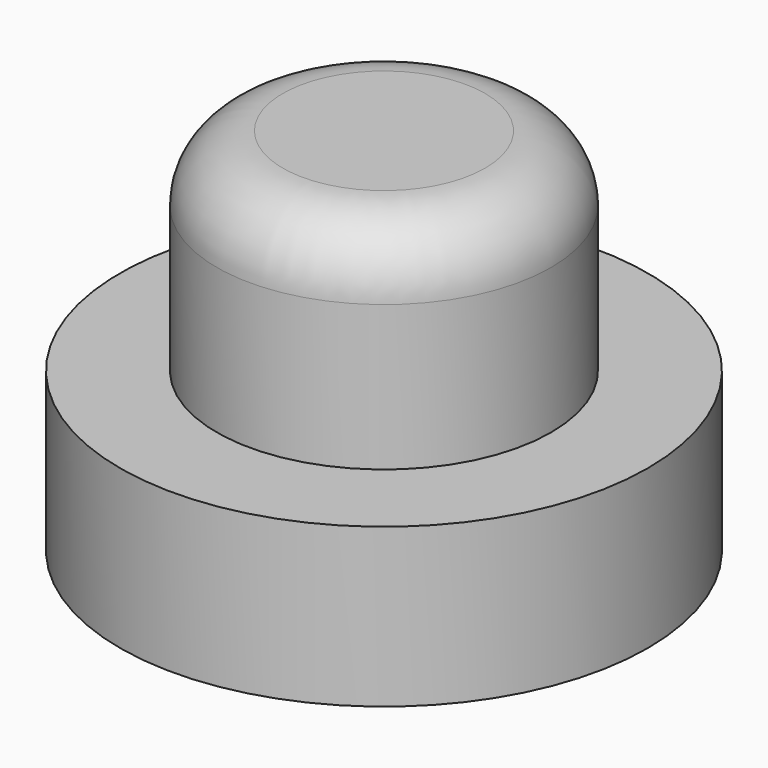
from build123d import *

# Parameters (mm, degrees)
CYLINDER007_R     = 1.9
CYLINDER007_DEPTH = 2.4
CYLINDER006_R     = 3
CYLINDER006_DEPTH = 1.8
FILLET004_R       = 0.75


with BuildPart() as cylinder011:
    # Cylinder007 → Cylinder007 (new body)
    with BuildSketch(Plane.XY.offset(1.5)):
        Circle(CYLINDER007_R)
    extrude(amount=CYLINDER007_DEPTH)


with BuildPart() as obj1:
    # Cylinder006 → Cylinder006 (new body)
    with BuildSketch(Plane.XY.offset(-0.3)):
        Circle(CYLINDER006_R)
    extrude(amount=CYLINDER006_DEPTH)

    # Fusion017: union Cylinder011
    add(cylinder011.part)

    # Fillet004
    fillet004_edges = [obj1.edges().sort_by_distance(p)[0] for p in [
        (-1.9, 0, 3.9),
    ]]
    fillet(fillet004_edges, radius=FILLET004_R)


with BuildPart() as obj1_1:
    # Fillet004 placement: moved
    add(obj1.part.moved(Location((-0.025, -34.635, 5.6))))


solid = obj1_1.part
